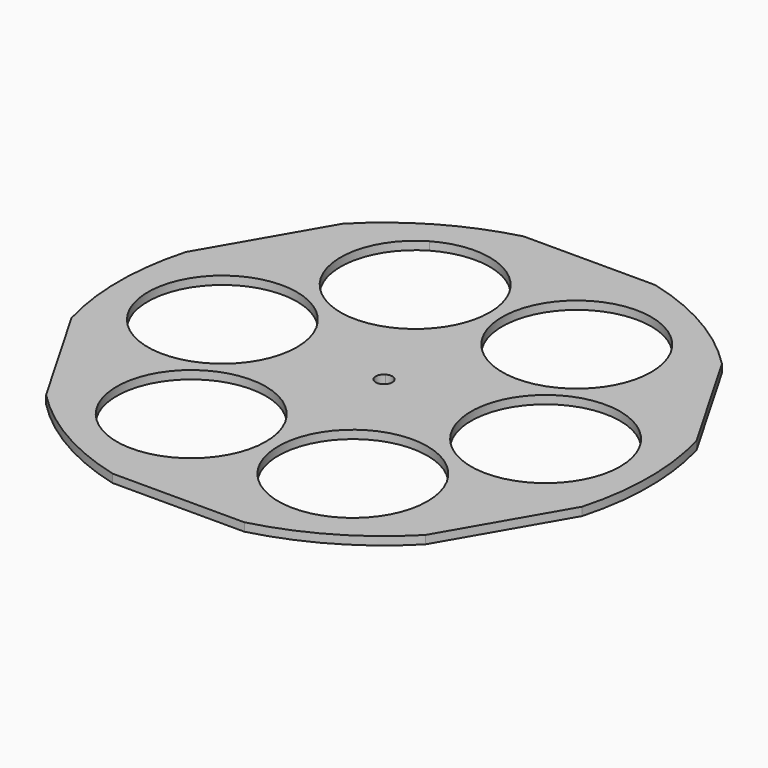
from build123d import *

# Parameters (mm, degrees)
F0_R     = 57.15
F1_DEPTH = 6.35


with BuildPart() as f1:
    # F0 (on Top) → F1 (new body)
    with BuildSketch(Plane.XY):
        with BuildLine():
            Line((50.401562, 196.85), (-50.401562, 196.85))
            ThreePointArc((-50.401562, 196.85), (-76.714053, 188.16268), (-101.6, 175.976362))
            ThreePointArc((-101.6, 175.976362), (-124.596634, 160.517659), (-145.276319, 142.074033))
            Line((-145.276319, 142.074033), (-195.677882, 54.775967))
            ThreePointArc((-195.677882, 54.775967), (-203.2, 0), (-195.677882, -54.775967))
            Line((-195.677882, -54.775967), (-145.276319, -142.074033))
            ThreePointArc((-145.276319, -142.074033), (-101.6, -175.976362), (-50.401562, -196.85))
            Line((-50.401562, -196.85), (50.401562, -196.85))
            ThreePointArc((50.401562, -196.85), (101.6, -175.976362), (145.276319, -142.074033))
            Line((145.276319, -142.074033), (195.677882, -54.775967))
            ThreePointArc((195.677882, -54.775967), (203.2, 0), (195.677882, 54.775967))
            Line((195.677882, 54.775967), (145.276319, 142.074033))
            ThreePointArc((145.276319, 142.074033), (101.6, 175.976362), (50.401562, 196.85))
        make_face()
        with Locations((-61.9125, -107.235596)):
            Circle(F0_R, mode=Mode.SUBTRACT)
        with Locations((61.9125, -107.235596)):
            Circle(F0_R, mode=Mode.SUBTRACT)
        with Locations((-123.825, 0)):
            Circle(F0_R, mode=Mode.SUBTRACT)
        with BuildLine():
            ThreePointArc((6.35, 0), (-3.175, -5.499261), (-3.175, 5.499261))
            ThreePointArc((-3.175, 5.499261), (3.175, 5.499261), (6.35, 0))
        make_face(mode=Mode.SUBTRACT)
        with BuildLine():
            ThreePointArc((-33.3375, 57.742244), (-111.405852, 78.660596), (-90.4875, 156.728947))
            ThreePointArc((-90.4875, 156.728947), (-33.3375, 156.728947), (-4.7625, 107.235596))
            ThreePointArc((-4.7625, 107.235596), (-12.419148, 78.660596), (-33.3375, 57.742244))
        make_face(mode=Mode.SUBTRACT)
        with Locations((123.825, 0)):
            Circle(F0_R, mode=Mode.SUBTRACT)
        with Locations((61.9125, 107.235596)):
            Circle(F0_R, mode=Mode.SUBTRACT)
    extrude(amount=F1_DEPTH)


solid = f1.part
